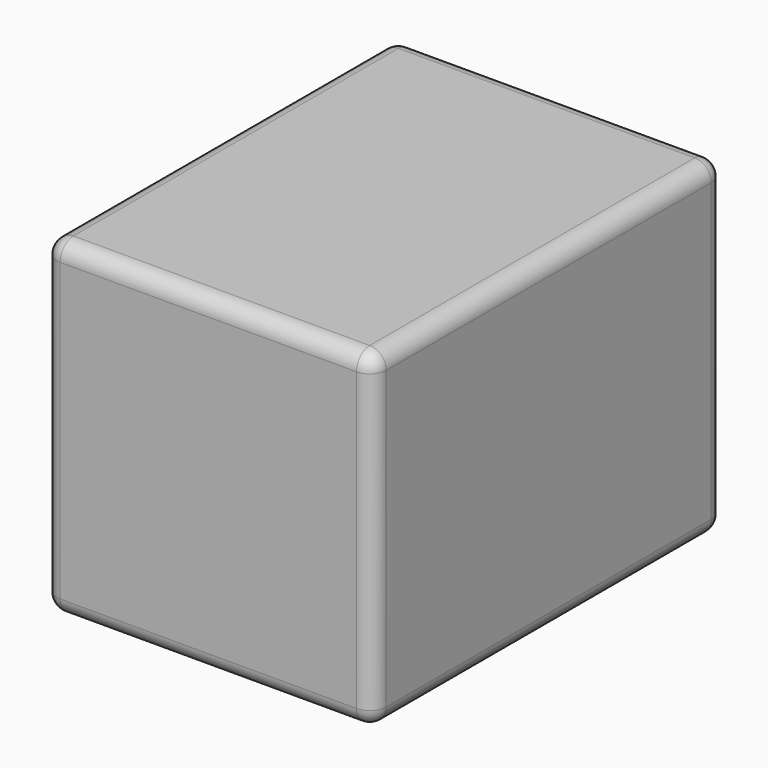
from build123d import *

# Parameters (mm, degrees)
F1_DEPTH = 60
F2_R     = 3


with BuildPart() as f1:
    # F0 (on Top) → F1 (new body)
    with BuildSketch(Plane.XY):
        Polygon((-30, -40), (0, -40), (30, -40), (30, 40), (-30, 40), align=None)
    extrude(amount=F1_DEPTH)

    # F2
    f2_edges = [f1.edges().sort_by_distance(p)[0] for p in [
        (-30, 40, 30),
        (-30, -40, 30),
        (-30, 0, 0),
        (-30, 0, 60),
        (0, -40, 60),
        (30, -40, 30),
        (0, -40, 0),
        (30, 0, 60),
        (0, 40, 60),
        (30, 40, 30),
        (30, 0, 0),
        (0, 40, 0),
    ]]
    fillet(f2_edges, radius=F2_R)


solid = f1.part
